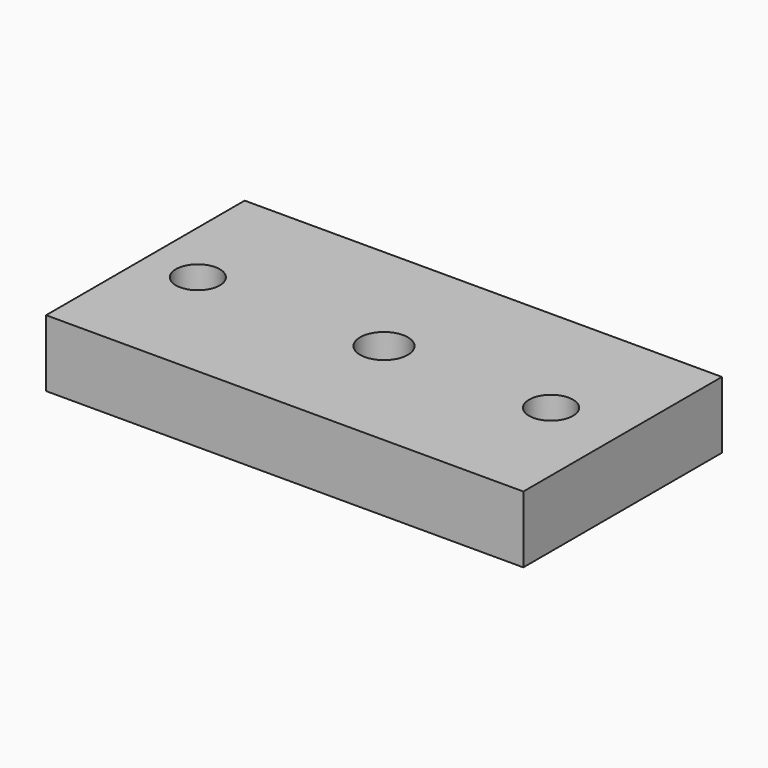
from build123d import *

# Parameters (mm, degrees)
PAD039_DEPTH    = 50
POCKET035_DEPTH = 132.001
SKETCH113_R     = 2.3
POCKET036_DEPTH = 5.5
SKETCH114_R     = 1.7
HOLE022_DEPTH   = 25
SKETCH115_R     = 2.5
POCKET037_DEPTH = 17.001


with BuildPart() as part:
    # Sketch111 → Pad039 (new body)
    with BuildSketch(Plane.YZ):
        Polygon((106, 235), (132, 235), (132, 218), (126, 218), (126, 228), (106, 228), align=None)
    extrude(amount=PAD039_DEPTH)

    # Sketch112 → Pocket035 (cut, through all)
    with BuildSketch(Plane.XZ):
        Polygon((20, 218), (0, 218), (0, 228), (6, 228), align=None)
        Polygon((30, 218), (50, 218), (50, 228), (44, 228), align=None)
    extrude(amount=-POCKET035_DEPTH, mode=Mode.SUBTRACT)

    # Sketch113 (on Face1 of Pocket035) → Pocket036 (cut)
    with BuildSketch(Plane(origin=(0, 0, 235), x_dir=(0, -1, 0), z_dir=(0, 0, 1))):
        with Locations((-119, 42.5)):
            Circle(SKETCH113_R)
        with Locations((-119, 5.5)):
            Circle(SKETCH113_R)
    extrude(amount=-POCKET036_DEPTH, mode=Mode.SUBTRACT)

    # Sketch114 (on Face18 of Pocket036) → Hole022 (cut)
    with BuildSketch(Plane(origin=(0, 126, 0), x_dir=(0, 0, -1), z_dir=(0, -1, 0))):
        with Locations((-224.5, 32.5)):
            Circle(SKETCH114_R)
        with Locations((-224.5, 17.5)):
            Circle(SKETCH114_R)
    extrude(amount=-HOLE022_DEPTH, mode=Mode.SUBTRACT)

    # Sketch115 (on Face1 of Hole022) → Pocket037 (cut, through all)
    with BuildSketch(Plane(origin=(0, 0, 235), x_dir=(0, -1, 0), z_dir=(0, 0, 1))):
        with Locations((-119, 25)):
            Circle(SKETCH115_R)
    extrude(amount=-POCKET037_DEPTH, mode=Mode.SUBTRACT)


with BuildPart() as part_1:
    # Body016 placement: moved
    add(part.part.moved(Location((-25, 0, 0))))


solid = part_1.part
